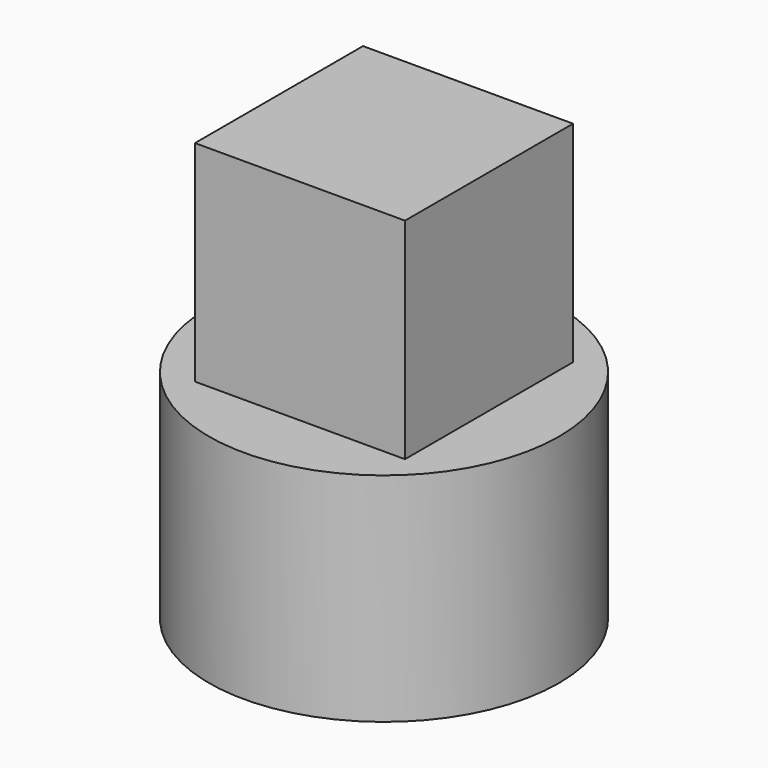
from build123d import *

# Parameters (mm, degrees)
F0_W     = 30
F0_H     = 30
F1_DEPTH = 30
F2_R     = 25
F3_DEPTH = 1
F4_R     = 25
F4_R_2   = 15
F5_DEPTH = 30


with BuildPart() as f1:
    # F0 (on Top) → F1 (new body)
    with BuildSketch(Plane.XY):
        Rectangle(F0_W, F0_H)
    extrude(amount=F1_DEPTH)

    # F2 (on face) → F3 (join)
    with BuildSketch(Plane(origin=(0, 0, 0), x_dir=(1, 0, 0), z_dir=(0, 0, -1))):
        Circle(F2_R)
        Polygon((15, 15), (15, 0), (15, -15), (0, -15), (-15, -15), (-15, 3.9e-09), (-15, 15), (0, 15), align=None, mode=Mode.SUBTRACT)
        with BuildLine():
            ThreePointArc((0, -15), (10.6066017178, -10.6066017178), (15, 0))
            ThreePointArc((15, 0), (10.6066017178, 10.6066017178), (0, 15))
            ThreePointArc((0, 15), (-10.6066017164, 10.6066017192), (-15, 3.9e-09))
            ThreePointArc((-15, 3.9e-09), (-10.6066017192, -10.6066017164), (0, -15))
        make_face()
        with BuildLine():
            ThreePointArc((-15, 3.9e-09), (-10.6066017164, 10.6066017192), (0, 15))
            Line((0, 15), (-15, 15))
            Line((-15, 15), (-15, 3.9e-09))
        make_face()
        with BuildLine():
            ThreePointArc((0, 15), (10.6066017178, 10.6066017178), (15, 0))
            Line((15, 0), (15, 15))
            Line((15, 15), (0, 15))
        make_face()
        with BuildLine():
            Line((15, -15), (15, 0))
            ThreePointArc((15, 0), (10.6066017178, -10.6066017178), (0, -15))
            Line((0, -15), (15, -15))
        make_face()
        with BuildLine():
            Line((-15, -15), (0, -15))
            ThreePointArc((0, -15), (-10.6066017192, -10.6066017164), (-15, 3.9e-09))
            Line((-15, 3.9e-09), (-15, -15))
        make_face()
    extrude(amount=F3_DEPTH)

    # F4 (on face) → F5 (join)
    with BuildSketch(Plane(origin=(0, 0, -1), x_dir=(1, 0, 0), z_dir=(0, 0, -1))):
        Circle(F4_R)
        Circle(F4_R_2, mode=Mode.SUBTRACT)
    extrude(amount=F5_DEPTH)


solid = f1.part
